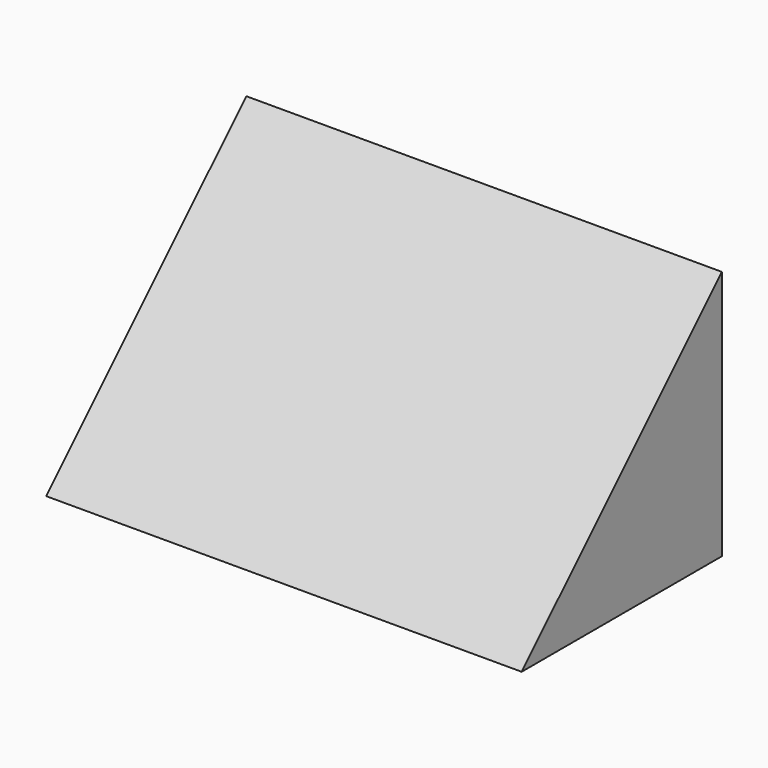
from build123d import *

# Parameters (mm, degrees)
F1_DEPTH = 241.3
F2_T     = -2.54


with BuildPart() as f1:
    # F0 (on Right) → F1 (new body, symmetric)
    with BuildSketch(Plane.YZ):
        Polygon((-254, 0), (0, 0), (0, 254), align=None)
    extrude(amount=F1_DEPTH, both=True)

    # F2
    f2_openings = [f1.faces().sort_by_distance(p)[0] for p in [
        (0, 0, 127),
        (0, -127, 0),
    ]]
    offset(amount=F2_T, openings=f2_openings)


solid = f1.part
